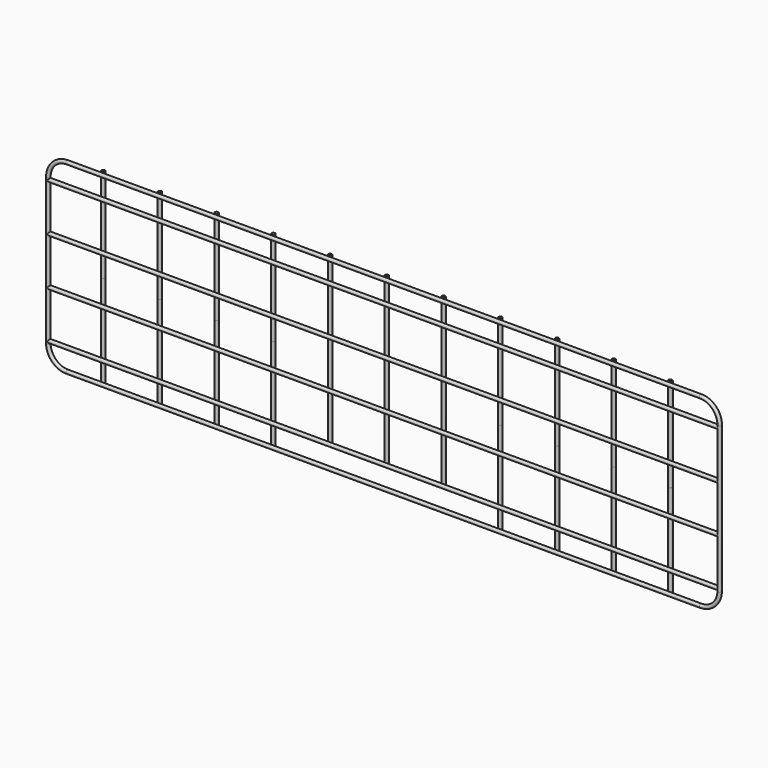
from build123d import *

# Parameters (mm, degrees)
F1_R          = 2.38125
F3_R          = 2.38125
F4_DEPTH      = 126.20625
F4_DEPTH_BACK = 126.20625
F5_R          = 2.38125
F6_DEPTH      = 450.86
F6_DEPTH_BACK = 450.86
F7_DEPTH      = 126.20625
F7_DEPTH_BACK = 96.8375


with BuildPart() as f2:
    # F2: sweep along a path in F0
    with BuildLine(Plane.XZ) as f2_path:
        Line((-425.45, 123.825), (425.45, 123.825))
        ThreePointArc((425.45, 123.825), (443.4105122421, 116.3855122421), (450.85, 98.425))
        Line((450.85, 98.425), (450.85, -98.425))
        ThreePointArc((450.85, -98.425), (443.4105122421, -116.3855122421), (425.45, -123.825))
        Line((425.45, -123.825), (-425.45, -123.825))
        ThreePointArc((-425.45, -123.825), (-443.4105122421, -116.3855122421), (-450.85, -98.425))
        Line((-450.85, -98.425), (-450.85, 98.425))
        ThreePointArc((-450.85, 98.425), (-443.4105122421, 116.3855122421), (-425.45, 123.825))
    # F1 (on Right) → F2 (sweep)
    with BuildSketch(Plane.YZ):
        with Locations((0, 123.825)):
            Circle(F1_R)
    sweep(path=f2_path.line)

    # F3 (on Top) → F4 (join, two sides)
    with BuildSketch(Plane.XY) as f4_sk:
        with Locations((-381, 4.7625)):
            Circle(F3_R)
        with BuildLine():
            Line((-304.8, 4.7625), (-307.18125, 4.7625))
            ThreePointArc((-307.18125, 4.7625), (-304.8, 2.38125), (-302.41875, 4.7625))
            Line((-302.41875, 4.7625), (-304.8, 4.7625))
        make_face()
        with BuildLine():
            ThreePointArc((-302.41875, 4.7625), (-304.8, 7.14375), (-307.18125, 4.7625))
            Line((-307.18125, 4.7625), (-304.8, 4.7625))
            Line((-304.8, 4.7625), (-302.41875, 4.7625))
        make_face()
        with BuildLine():
            ThreePointArc((-226.21875, 4.7625), (-228.6, 7.14375), (-230.98125, 4.7625))
            Line((-230.98125, 4.7625), (-228.6, 4.7625))
            Line((-228.6, 4.7625), (-226.21875, 4.7625))
        make_face()
        with BuildLine():
            Line((-228.6, 4.7625), (-230.98125, 4.7625))
            ThreePointArc((-230.98125, 4.7625), (-228.6, 2.38125), (-226.21875, 4.7625))
            Line((-226.21875, 4.7625), (-228.6, 4.7625))
        make_face()
        with BuildLine():
            ThreePointArc((-150.01875, 4.7625), (-152.4, 7.14375), (-154.78125, 4.7625))
            Line((-154.78125, 4.7625), (-152.4, 4.7625))
            Line((-152.4, 4.7625), (-150.01875, 4.7625))
        make_face()
        with BuildLine():
            Line((-152.4, 4.7625), (-154.78125, 4.7625))
            ThreePointArc((-154.78125, 4.7625), (-152.4, 2.38125), (-150.01875, 4.7625))
            Line((-150.01875, 4.7625), (-152.4, 4.7625))
        make_face()
        with BuildLine():
            Line((152.4, 4.7625), (150.01875, 4.7625))
            ThreePointArc((150.01875, 4.7625), (152.4, 2.38125), (154.78125, 4.7625))
            Line((154.78125, 4.7625), (152.4, 4.7625))
        make_face()
        with BuildLine():
            ThreePointArc((154.78125, 4.7625), (152.4, 7.14375), (150.01875, 4.7625))
            Line((150.01875, 4.7625), (152.4, 4.7625))
            Line((152.4, 4.7625), (154.78125, 4.7625))
        make_face()
        with BuildLine():
            ThreePointArc((230.98125, 4.7625), (228.6, 7.14375), (226.21875, 4.7625))
            Line((226.21875, 4.7625), (228.6, 4.7625))
            Line((228.6, 4.7625), (230.98125, 4.7625))
        make_face()
        with BuildLine():
            Line((228.6, 4.7625), (226.21875, 4.7625))
            ThreePointArc((226.21875, 4.7625), (228.6, 2.38125), (230.98125, 4.7625))
            Line((230.98125, 4.7625), (228.6, 4.7625))
        make_face()
        with BuildLine():
            ThreePointArc((383.38125, 4.7625), (381, 7.14375), (378.61875, 4.7625))
            ThreePointArc((378.61875, 4.7625), (381, 2.38125), (383.38125, 4.7625))
        make_face()
        with BuildLine():
            Line((304.8, 4.7625), (302.41875, 4.7625))
            ThreePointArc((302.41875, 4.7625), (304.8, 2.38125), (307.18125, 4.7625))
            Line((307.18125, 4.7625), (304.8, 4.7625))
        make_face()
        with BuildLine():
            ThreePointArc((307.18125, 4.7625), (304.8, 7.14375), (302.41875, 4.7625))
            Line((302.41875, 4.7625), (304.8, 4.7625))
            Line((304.8, 4.7625), (307.18125, 4.7625))
        make_face()
    extrude(amount=F4_DEPTH)
    extrude(f4_sk.sketch, amount=-F4_DEPTH_BACK)

    # F5 (on Right) → F6 (join, two sides)
    with BuildSketch(Plane.YZ) as f6_sk:
        with Locations((0, -31.75)):
            Circle(F5_R)
        with Locations((0, 31.75)):
            Circle(F5_R)
        with Locations((0, 95.25)):
            Circle(F5_R)
        with Locations((0, -95.25)):
            Circle(F5_R)
    extrude(amount=F6_DEPTH)
    extrude(f6_sk.sketch, amount=-F6_DEPTH_BACK)


with BuildPart() as f7:
    # F3 (on Top) → F7 (new body, two sides)
    with BuildSketch(Plane.XY) as f7_sk:
        with BuildLine():
            ThreePointArc((-73.81875, 4.7625), (-76.2, 7.14375), (-78.58125, 4.7625))
            Line((-78.58125, 4.7625), (-76.2, 4.7625))
            Line((-76.2, 4.7625), (-73.81875, 4.7625))
        make_face()
        with BuildLine():
            Line((-76.2, 4.7625), (-78.58125, 4.7625))
            ThreePointArc((-78.58125, 4.7625), (-76.2, 2.38125), (-73.81875, 4.7625))
            Line((-73.81875, 4.7625), (-76.2, 4.7625))
        make_face()
    extrude(amount=F7_DEPTH)
    extrude(f7_sk.sketch, amount=-F7_DEPTH_BACK)


with BuildPart() as f7b:
    # F3 (on Top) → F7, piece 2 (new body, two sides)
    with BuildSketch(Plane.XY) as f7_2_sk:
        with BuildLine():
            Line((0, 4.7625), (-2.38125, 4.7625))
            ThreePointArc((-2.38125, 4.7625), (-1.6837980227, 3.0787019773), (0, 2.38125))
            Line((0, 2.38125), (0, 4.7625))
        make_face()
        with BuildLine():
            ThreePointArc((2.38125, 4.7625), (0, 7.14375), (-2.38125, 4.7625))
            Line((-2.38125, 4.7625), (0, 4.7625))
            Line((0, 4.7625), (2.38125, 4.7625))
        make_face()
        with BuildLine():
            ThreePointArc((0, 2.38125), (1.6837980227, 3.0787019773), (2.38125, 4.7625))
            Line((2.38125, 4.7625), (0, 4.7625))
            Line((0, 4.7625), (0, 2.38125))
        make_face()
    extrude(amount=F7_DEPTH)
    extrude(f7_2_sk.sketch, amount=-F7_DEPTH_BACK)


with BuildPart() as f7c:
    # F3 (on Top) → F7, piece 3 (new body, two sides)
    with BuildSketch(Plane.XY) as f7_3_sk:
        with BuildLine():
            ThreePointArc((78.58125, 4.7625), (76.2, 7.14375), (73.81875, 4.7625))
            Line((73.81875, 4.7625), (76.2, 4.7625))
            Line((76.2, 4.7625), (78.58125, 4.7625))
        make_face()
        with BuildLine():
            Line((76.2, 4.7625), (73.81875, 4.7625))
            ThreePointArc((73.81875, 4.7625), (76.2, 2.38125), (78.58125, 4.7625))
            Line((78.58125, 4.7625), (76.2, 4.7625))
        make_face()
    extrude(amount=F7_DEPTH)
    extrude(f7_3_sk.sketch, amount=-F7_DEPTH_BACK)


solid = Compound([f2.part, f7.part, f7b.part, f7c.part])
